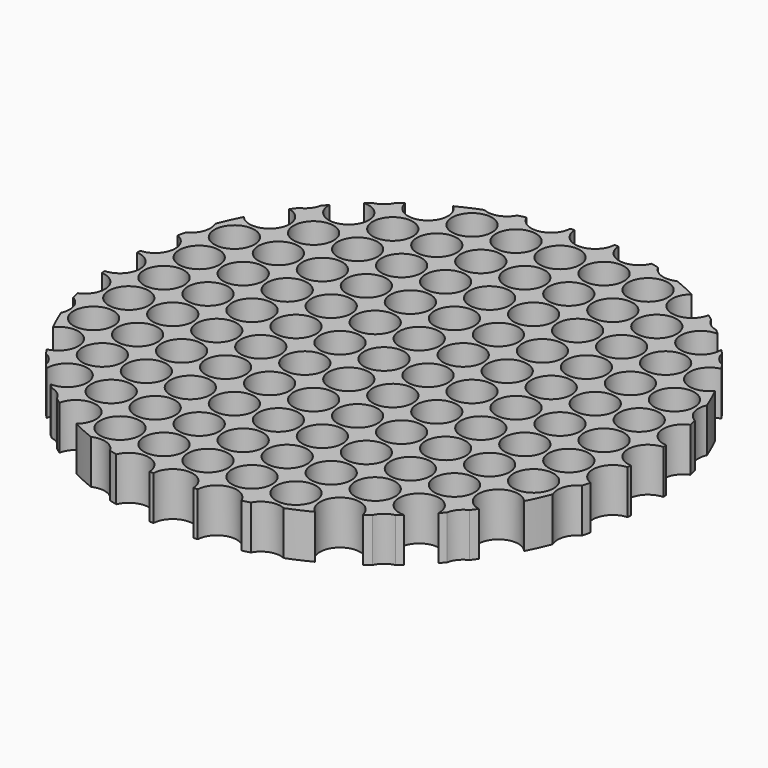
from build123d import *

# Parameters (mm, degrees)
F0_R     = 11.569788
F1_DEPTH = 25.4


with BuildPart() as f1:
    # F0 (on Top) → F1 (new body)
    with BuildSketch(Plane.XY):
        with BuildLine():
            ThreePointArc((151.960827, -11.56145), (140.830212, 0), (151.960827, 11.56145))
            ThreePointArc((151.960827, 11.56145), (151.869511, 12.704784), (151.769594, 13.847399))
            ThreePointArc((151.769594, 13.847399), (140.987631, 23.497939), (148.05688, 36.12368))
            ThreePointArc((148.05688, 36.12368), (147.487795, 38.38112), (146.884292, 40.629604))
            ThreePointArc((146.884292, 40.629604), (141.423935, 47.141312), (141.885196, 55.626892))
            ThreePointArc((141.885196, 55.626892), (139.075931, 62.318901), (135.951248, 68.869574))
            ThreePointArc((135.951248, 68.869574), (117.078989, 70.247393), (124.744329, 87.547772))
            ThreePointArc((124.744329, 87.547772), (123.48058, 89.321365), (122.191617, 91.076719))
            ThreePointArc((122.191617, 91.076719), (117.965513, 94.372411), (115.677886, 99.218883))
            ThreePointArc((115.677886, 99.218883), (114.427777, 100.658054), (113.159765, 102.081475))
            ThreePointArc((113.159765, 102.081475), (113.167282, 101.84079), (113.169788, 101.6))
            ThreePointArc((113.169788, 101.6), (93.250433, 93.59096), (102.081475, 113.159765))
            ThreePointArc((102.081475, 113.159765), (100.658054, 114.427777), (99.218883, 115.677886))
            ThreePointArc((99.218883, 115.677886), (94.372411, 117.965513), (91.076719, 122.191617))
            ThreePointArc((91.076719, 122.191617), (89.321365, 123.48058), (87.547772, 124.744329))
            ThreePointArc((87.547772, 124.744329), (70.247393, 117.078989), (68.869574, 135.951248))
            ThreePointArc((68.869574, 135.951248), (62.318901, 139.075931), (55.626892, 141.885196))
            ThreePointArc((55.626892, 141.885196), (47.141312, 141.423935), (40.629604, 146.884292))
            ThreePointArc((40.629604, 146.884292), (38.38112, 147.487795), (36.12368, 148.05688))
            ThreePointArc((36.12368, 148.05688), (23.497939, 140.987631), (13.847399, 151.769594))
            ThreePointArc((13.847399, 151.769594), (12.704784, 151.869511), (11.56145, 151.960827))
            ThreePointArc((11.56145, 151.960827), (0, 140.830212), (-11.56145, 151.960827))
            ThreePointArc((-11.56145, 151.960827), (-12.704784, 151.869511), (-13.847399, 151.769594))
            ThreePointArc((-13.847399, 151.769594), (-23.497939, 140.987631), (-36.12368, 148.05688))
            ThreePointArc((-36.12368, 148.05688), (-38.38112, 147.487795), (-40.629604, 146.884292))
            ThreePointArc((-40.629604, 146.884292), (-47.141312, 141.423935), (-55.626892, 141.885196))
            ThreePointArc((-55.626892, 141.885196), (-62.318901, 139.075931), (-68.869574, 135.951248))
            ThreePointArc((-68.869574, 135.951248), (-65.743627, 131.952197), (-64.630212, 127))
            ThreePointArc((-64.630212, 127), (-75.066715, 115.48585), (-87.547772, 124.744329))
            ThreePointArc((-87.547772, 124.744329), (-89.321365, 123.48058), (-91.076719, 122.191617))
            ThreePointArc((-91.076719, 122.191617), (-94.372411, 117.965513), (-99.218883, 115.677886))
            ThreePointArc((-99.218883, 115.677886), (-100.658054, 114.427777), (-102.081475, 113.159765))
            ThreePointArc((-102.081475, 113.159765), (-93.59096, 109.949567), (-90.030212, 101.6))
            ThreePointArc((-90.030212, 101.6), (-101.84079, 90.032718), (-113.159765, 102.081475))
            ThreePointArc((-113.159765, 102.081475), (-114.427777, 100.658054), (-115.677886, 99.218883))
            ThreePointArc((-115.677886, 99.218883), (-117.965513, 94.372411), (-122.191617, 91.076719))
            ThreePointArc((-122.191617, 91.076719), (-123.48058, 89.321365), (-124.744329, 87.547772))
            ThreePointArc((-124.744329, 87.547772), (-118.056912, 83.54038), (-115.430212, 76.2))
            ThreePointArc((-115.430212, 76.2), (-123.10796, 65.304496), (-135.951248, 68.869574))
            ThreePointArc((-135.951248, 68.869574), (-139.075931, 62.318901), (-141.885196, 55.626892))
            ThreePointArc((-141.885196, 55.626892), (-141.097035, 53.270419), (-140.830212, 50.8))
            ThreePointArc((-140.830212, 50.8), (-142.458281, 44.882043), (-146.884292, 40.629604))
            ThreePointArc((-146.884292, 40.629604), (-147.487795, 38.38112), (-148.05688, 36.12368))
            ThreePointArc((-148.05688, 36.12368), (-142.805497, 31.865718), (-140.830212, 25.4))
            ThreePointArc((-140.830212, 25.4), (-143.998998, 17.444929), (-151.769594, 13.847399))
            ThreePointArc((-151.769594, 13.847399), (-151.869511, 12.704784), (-151.960827, 11.56145))
            ThreePointArc((-151.960827, 11.56145), (-144.065099, 8.024302), (-140.830212, 0))
            ThreePointArc((-140.830212, 0), (-144.065099, -8.024302), (-151.960827, -11.56145))
            ThreePointArc((-151.960827, -11.56145), (-151.869511, -12.704784), (-151.769594, -13.847399))
            ThreePointArc((-151.769594, -13.847399), (-143.998998, -17.444929), (-140.830212, -25.4))
            ThreePointArc((-140.830212, -25.4), (-142.805497, -31.865718), (-148.05688, -36.12368))
            ThreePointArc((-148.05688, -36.12368), (-147.487795, -38.38112), (-146.884292, -40.629604))
            ThreePointArc((-146.884292, -40.629604), (-142.458281, -44.882043), (-140.830212, -50.8))
            ThreePointArc((-140.830212, -50.8), (-141.097035, -53.270419), (-141.885196, -55.626892))
            ThreePointArc((-141.885196, -55.626892), (-139.075931, -62.318901), (-135.951248, -68.869574))
            ThreePointArc((-135.951248, -68.869574), (-123.10796, -65.304496), (-115.430212, -76.2))
            ThreePointArc((-115.430212, -76.2), (-118.056912, -83.54038), (-124.744329, -87.547772))
            ThreePointArc((-124.744329, -87.547772), (-123.48058, -89.321365), (-122.191617, -91.076719))
            ThreePointArc((-122.191617, -91.076719), (-117.965513, -94.372411), (-115.677886, -99.218883))
            ThreePointArc((-115.677886, -99.218883), (-114.427777, -100.658054), (-113.159765, -102.081475))
            ThreePointArc((-113.159765, -102.081475), (-101.84079, -90.032718), (-90.030212, -101.6))
            ThreePointArc((-90.030212, -101.6), (-93.59096, -109.949567), (-102.081475, -113.159765))
            ThreePointArc((-102.081475, -113.159765), (-100.658054, -114.427777), (-99.218883, -115.677886))
            ThreePointArc((-99.218883, -115.677886), (-94.372411, -117.965513), (-91.076719, -122.191617))
            ThreePointArc((-91.076719, -122.191617), (-89.321365, -123.48058), (-87.547772, -124.744329))
            ThreePointArc((-87.547772, -124.744329), (-75.066715, -115.48585), (-64.630212, -127))
            ThreePointArc((-64.630212, -127), (-65.743627, -131.952197), (-68.869574, -135.951248))
            ThreePointArc((-68.869574, -135.951248), (-62.318901, -139.075931), (-55.626892, -141.885196))
            ThreePointArc((-55.626892, -141.885196), (-47.141312, -141.423935), (-40.629604, -146.884292))
            ThreePointArc((-40.629604, -146.884292), (-38.38112, -147.487795), (-36.12368, -148.05688))
            ThreePointArc((-36.12368, -148.05688), (-23.497939, -140.987631), (-13.847399, -151.769594))
            ThreePointArc((-13.847399, -151.769594), (-12.704784, -151.869511), (-11.56145, -151.960827))
            ThreePointArc((-11.56145, -151.960827), (0, -140.830212), (11.56145, -151.960827))
            ThreePointArc((11.56145, -151.960827), (12.704784, -151.869511), (13.847399, -151.769594))
            ThreePointArc((13.847399, -151.769594), (23.497939, -140.987631), (36.12368, -148.05688))
            ThreePointArc((36.12368, -148.05688), (38.38112, -147.487795), (40.629604, -146.884292))
            ThreePointArc((40.629604, -146.884292), (47.141312, -141.423935), (55.626892, -141.885196))
            ThreePointArc((55.626892, -141.885196), (62.318901, -139.075931), (68.869574, -135.951248))
            ThreePointArc((68.869574, -135.951248), (70.247393, -117.078989), (87.547772, -124.744329))
            ThreePointArc((87.547772, -124.744329), (89.321365, -123.48058), (91.076719, -122.191617))
            ThreePointArc((91.076719, -122.191617), (94.372411, -117.965513), (99.218883, -115.677886))
            ThreePointArc((99.218883, -115.677886), (100.658054, -114.427777), (102.081475, -113.159765))
            ThreePointArc((102.081475, -113.159765), (93.250433, -93.59096), (113.169788, -101.6))
            ThreePointArc((113.169788, -101.6), (113.167282, -101.84079), (113.159765, -102.081475))
            ThreePointArc((113.159765, -102.081475), (114.427777, -100.658054), (115.677886, -99.218883))
            ThreePointArc((115.677886, -99.218883), (117.965513, -94.372411), (122.191617, -91.076719))
            ThreePointArc((122.191617, -91.076719), (123.48058, -89.321365), (124.744329, -87.547772))
            ThreePointArc((124.744329, -87.547772), (117.078989, -70.247393), (135.951248, -68.869574))
            ThreePointArc((135.951248, -68.869574), (139.075931, -62.318901), (141.885196, -55.626892))
            ThreePointArc((141.885196, -55.626892), (141.423935, -47.141312), (146.884292, -40.629604))
            ThreePointArc((146.884292, -40.629604), (147.487795, -38.38112), (148.05688, -36.12368))
            ThreePointArc((148.05688, -36.12368), (140.987631, -23.497939), (151.769594, -13.847399))
            ThreePointArc((151.769594, -13.847399), (151.869511, -12.704784), (151.960827, -11.56145))
        make_face()
        with Locations((-76.2, -101.6)):
            Circle(F0_R, mode=Mode.SUBTRACT)
        with Locations((-101.6, -76.2)):
            Circle(F0_R, mode=Mode.SUBTRACT)
        with Locations((-76.2, -76.2)):
            Circle(F0_R, mode=Mode.SUBTRACT)
        with Locations((-50.8, -127)):
            Circle(F0_R, mode=Mode.SUBTRACT)
        with Locations((-25.4, -127)):
            Circle(F0_R, mode=Mode.SUBTRACT)
        with Locations((0, -127)):
            Circle(F0_R, mode=Mode.SUBTRACT)
        with Locations((-50.8, -101.6)):
            Circle(F0_R, mode=Mode.SUBTRACT)
        with Locations((-50.8, -76.2)):
            Circle(F0_R, mode=Mode.SUBTRACT)
        with Locations((-25.4, -101.6)):
            Circle(F0_R, mode=Mode.SUBTRACT)
        with Locations((0, -101.6)):
            Circle(F0_R, mode=Mode.SUBTRACT)
        with Locations((-25.4, -76.2)):
            Circle(F0_R, mode=Mode.SUBTRACT)
        with Locations((0, -76.2)):
            Circle(F0_R, mode=Mode.SUBTRACT)
        with Locations((-127, -50.8)):
            Circle(F0_R, mode=Mode.SUBTRACT)
        with Locations((-101.6, -50.8)):
            Circle(F0_R, mode=Mode.SUBTRACT)
        with Locations((-76.2, -50.8)):
            Circle(F0_R, mode=Mode.SUBTRACT)
        with Locations((-127, -25.4)):
            Circle(F0_R, mode=Mode.SUBTRACT)
        with Locations((-127, 0)):
            Circle(F0_R, mode=Mode.SUBTRACT)
        with Locations((-101.6, -25.4)):
            Circle(F0_R, mode=Mode.SUBTRACT)
        with Locations((-76.2, -25.4)):
            Circle(F0_R, mode=Mode.SUBTRACT)
        with Locations((-101.6, 0)):
            Circle(F0_R, mode=Mode.SUBTRACT)
        with Locations((-76.2, 0)):
            Circle(F0_R, mode=Mode.SUBTRACT)
        with Locations((-50.8, -50.8)):
            Circle(F0_R, mode=Mode.SUBTRACT)
        with Locations((-25.4, -50.8)):
            Circle(F0_R, mode=Mode.SUBTRACT)
        with Locations((0, -50.8)):
            Circle(F0_R, mode=Mode.SUBTRACT)
        with Locations((-50.8, -25.4)):
            Circle(F0_R, mode=Mode.SUBTRACT)
        with Locations((-50.8, 0)):
            Circle(F0_R, mode=Mode.SUBTRACT)
        with Locations((-25.4, -25.4)):
            Circle(F0_R, mode=Mode.SUBTRACT)
        with Locations((0, -25.4)):
            Circle(F0_R, mode=Mode.SUBTRACT)
        with Locations((-25.4, 0)):
            Circle(F0_R, mode=Mode.SUBTRACT)
        Circle(F0_R, mode=Mode.SUBTRACT)
        with Locations((25.4, -127)):
            Circle(F0_R, mode=Mode.SUBTRACT)
        with Locations((50.8, -127)):
            Circle(F0_R, mode=Mode.SUBTRACT)
        with Locations((25.4, -101.6)):
            Circle(F0_R, mode=Mode.SUBTRACT)
        with Locations((50.8, -101.6)):
            Circle(F0_R, mode=Mode.SUBTRACT)
        with Locations((25.4, -76.2)):
            Circle(F0_R, mode=Mode.SUBTRACT)
        with Locations((50.8, -76.2)):
            Circle(F0_R, mode=Mode.SUBTRACT)
        with Locations((76.2, -101.6)):
            Circle(F0_R, mode=Mode.SUBTRACT)
        with Locations((76.2, -76.2)):
            Circle(F0_R, mode=Mode.SUBTRACT)
        with Locations((101.6, -76.2)):
            Circle(F0_R, mode=Mode.SUBTRACT)
        with Locations((25.4, -50.8)):
            Circle(F0_R, mode=Mode.SUBTRACT)
        with Locations((50.8, -50.8)):
            Circle(F0_R, mode=Mode.SUBTRACT)
        with Locations((76.2, -50.8)):
            Circle(F0_R, mode=Mode.SUBTRACT)
        with Locations((25.4, -25.4)):
            Circle(F0_R, mode=Mode.SUBTRACT)
        with Locations((50.8, -25.4)):
            Circle(F0_R, mode=Mode.SUBTRACT)
        with Locations((25.4, 0)):
            Circle(F0_R, mode=Mode.SUBTRACT)
        with Locations((50.8, 0)):
            Circle(F0_R, mode=Mode.SUBTRACT)
        with Locations((76.2, -25.4)):
            Circle(F0_R, mode=Mode.SUBTRACT)
        with Locations((76.2, 0)):
            Circle(F0_R, mode=Mode.SUBTRACT)
        with Locations((101.6, -50.8)):
            Circle(F0_R, mode=Mode.SUBTRACT)
        with Locations((127, -50.8)):
            Circle(F0_R, mode=Mode.SUBTRACT)
        with Locations((101.6, -25.4)):
            Circle(F0_R, mode=Mode.SUBTRACT)
        with Locations((127, -25.4)):
            Circle(F0_R, mode=Mode.SUBTRACT)
        with Locations((101.6, 0)):
            Circle(F0_R, mode=Mode.SUBTRACT)
        with Locations((127, 0)):
            Circle(F0_R, mode=Mode.SUBTRACT)
        with Locations((-127, 25.4)):
            Circle(F0_R, mode=Mode.SUBTRACT)
        with Locations((-127, 50.8)):
            Circle(F0_R, mode=Mode.SUBTRACT)
        with Locations((-101.6, 25.4)):
            Circle(F0_R, mode=Mode.SUBTRACT)
        with Locations((-76.2, 25.4)):
            Circle(F0_R, mode=Mode.SUBTRACT)
        with Locations((-101.6, 50.8)):
            Circle(F0_R, mode=Mode.SUBTRACT)
        with Locations((-76.2, 50.8)):
            Circle(F0_R, mode=Mode.SUBTRACT)
        with Locations((-101.6, 76.2)):
            Circle(F0_R, mode=Mode.SUBTRACT)
        with Locations((-76.2, 76.2)):
            Circle(F0_R, mode=Mode.SUBTRACT)
        with Locations((-50.8, 25.4)):
            Circle(F0_R, mode=Mode.SUBTRACT)
        with Locations((-50.8, 50.8)):
            Circle(F0_R, mode=Mode.SUBTRACT)
        with Locations((-25.4, 25.4)):
            Circle(F0_R, mode=Mode.SUBTRACT)
        with Locations((0, 25.4)):
            Circle(F0_R, mode=Mode.SUBTRACT)
        with Locations((-25.4, 50.8)):
            Circle(F0_R, mode=Mode.SUBTRACT)
        with Locations((0, 50.8)):
            Circle(F0_R, mode=Mode.SUBTRACT)
        with Locations((-50.8, 76.2)):
            Circle(F0_R, mode=Mode.SUBTRACT)
        with Locations((-25.4, 76.2)):
            Circle(F0_R, mode=Mode.SUBTRACT)
        with Locations((0, 76.2)):
            Circle(F0_R, mode=Mode.SUBTRACT)
        with Locations((-76.2, 101.6)):
            Circle(F0_R, mode=Mode.SUBTRACT)
        with Locations((-50.8, 101.6)):
            Circle(F0_R, mode=Mode.SUBTRACT)
        with Locations((-50.8, 127)):
            Circle(F0_R, mode=Mode.SUBTRACT)
        with Locations((-25.4, 101.6)):
            Circle(F0_R, mode=Mode.SUBTRACT)
        with Locations((0, 101.6)):
            Circle(F0_R, mode=Mode.SUBTRACT)
        with Locations((-25.4, 127)):
            Circle(F0_R, mode=Mode.SUBTRACT)
        with Locations((0, 127)):
            Circle(F0_R, mode=Mode.SUBTRACT)
        with Locations((25.4, 25.4)):
            Circle(F0_R, mode=Mode.SUBTRACT)
        with Locations((50.8, 25.4)):
            Circle(F0_R, mode=Mode.SUBTRACT)
        with Locations((25.4, 50.8)):
            Circle(F0_R, mode=Mode.SUBTRACT)
        with Locations((50.8, 50.8)):
            Circle(F0_R, mode=Mode.SUBTRACT)
        with Locations((76.2, 25.4)):
            Circle(F0_R, mode=Mode.SUBTRACT)
        with Locations((76.2, 50.8)):
            Circle(F0_R, mode=Mode.SUBTRACT)
        with Locations((25.4, 76.2)):
            Circle(F0_R, mode=Mode.SUBTRACT)
        with Locations((50.8, 76.2)):
            Circle(F0_R, mode=Mode.SUBTRACT)
        with Locations((76.2, 76.2)):
            Circle(F0_R, mode=Mode.SUBTRACT)
        with Locations((101.6, 25.4)):
            Circle(F0_R, mode=Mode.SUBTRACT)
        with Locations((127, 25.4)):
            Circle(F0_R, mode=Mode.SUBTRACT)
        with Locations((101.6, 50.8)):
            Circle(F0_R, mode=Mode.SUBTRACT)
        with Locations((127, 50.8)):
            Circle(F0_R, mode=Mode.SUBTRACT)
        with Locations((101.6, 76.2)):
            Circle(F0_R, mode=Mode.SUBTRACT)
        with Locations((25.4, 101.6)):
            Circle(F0_R, mode=Mode.SUBTRACT)
        with Locations((50.8, 101.6)):
            Circle(F0_R, mode=Mode.SUBTRACT)
        with Locations((25.4, 127)):
            Circle(F0_R, mode=Mode.SUBTRACT)
        with Locations((50.8, 127)):
            Circle(F0_R, mode=Mode.SUBTRACT)
        with Locations((76.2, 101.6)):
            Circle(F0_R, mode=Mode.SUBTRACT)
    extrude(amount=F1_DEPTH)


solid = f1.part
